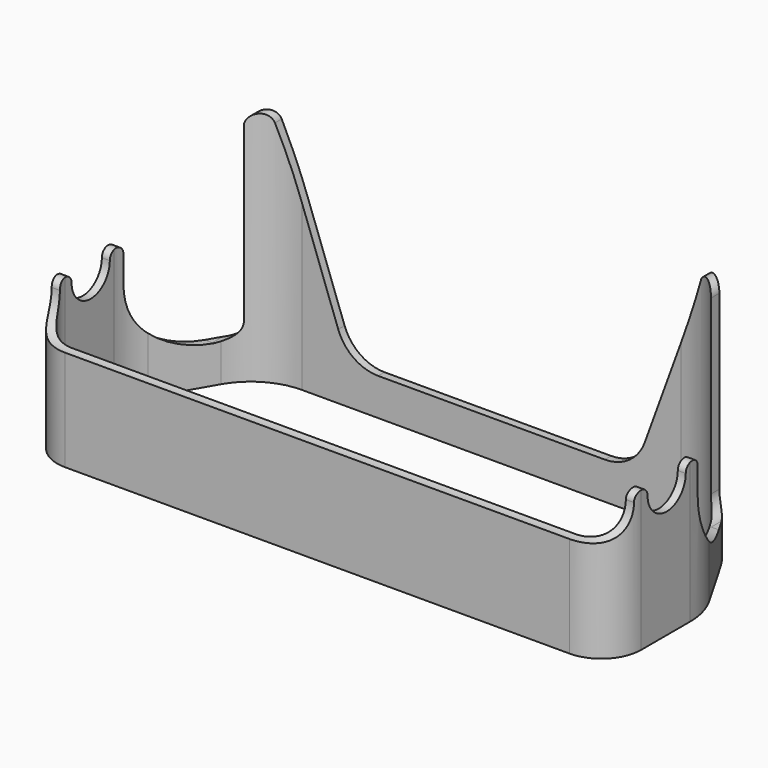
from build123d import *

# Parameters (mm, degrees)
PAD041_DEPTH         = 45
POCKET020_DEPTH      = 55.001
POCKET020_DEPTH_BACK = 55.001
POCKET021_DEPTH      = 8.501


with BuildPart() as part:
    # Sketch123 → Pad041 (new body)
    with BuildSketch(Plane.XY):
        with BuildLine():
            Line((-55, -17.5), (-55, -6))
            ThreePointArc((-53.191343, 0.75), (-54.539999, -2.505943), (-55, -6))
            Line((-53.191343, 0.75), (-47.41784, 10.75))
            ThreePointArc((-35.726497, 17.5), (-42.476497, 15.691343), (-47.41784, 10.75))
            Line((-35.726497, 17.5), (35.726497, 17.5))
            ThreePointArc((47.41784, 10.75), (42.476497, 15.691343), (35.726497, 17.5))
            Line((47.41784, 10.75), (53.191343, 0.75))
            ThreePointArc((55, -6), (54.539999, -2.505943), (53.191343, 0.75))
            Line((55, -6), (55, -17.5))
            ThreePointArc((47.5, -25), (52.803301, -22.803301), (55, -17.5))
            Line((47.5, -25), (-47.5, -25))
            ThreePointArc((-55, -17.5), (-52.803301, -22.803301), (-47.5, -25))
        make_face()
        with BuildLine():
            Line((53.5, -17.5), (53.5, -6))
            ThreePointArc((53.5, -6), (53.09111, -2.894171), (51.892305, 0))
            Line((51.892305, 0), (46.118802, 10))
            ThreePointArc((46.118802, 10), (41.726497, 14.392305), (35.726497, 16))
            Line((35.726497, 16), (-35.726497, 16))
            ThreePointArc((-35.726497, 16), (-41.726497, 14.392305), (-46.118802, 10))
            Line((-46.118802, 10), (-51.892305, 0))
            ThreePointArc((-51.892305, 0), (-53.09111, -2.894171), (-53.5, -6))
            Line((-53.5, -6), (-53.5, -17.5))
            ThreePointArc((-53.5, -17.5), (-51.742641, -21.742641), (-47.5, -23.5))
            Line((-47.5, -23.5), (47.5, -23.5))
            ThreePointArc((47.5, -23.5), (51.742641, -21.742641), (53.5, -17.5))
        make_face(mode=Mode.SUBTRACT)
    extrude(amount=PAD041_DEPTH)

    # Sketch124 → Pocket020 (cut, two sides)
    with BuildSketch(Plane.YZ) as pocket020_sk:
        with BuildLine():
            ThreePointArc((-16, 25), (-11.5, 20.5), (-7, 25))
            ThreePointArc((-4, 25), (-5.5, 26.5), (-7, 25))
            Line((-4, 25), (-4, 20))
            ThreePointArc((-4, 20), (-0.192388, 10.807612), (9, 7))
            Line((9, 50), (9, 7))
            Line((-26.5, 50), (9, 50))
            Line((-26.5, 20.5), (-26.5, 50))
            ThreePointArc((-26.5, 20.5), (-26.06066, 19.43934), (-25, 19))
            ThreePointArc((-25, 19), (-20.757359, 20.757359), (-19, 25))
            ThreePointArc((-16, 25), (-17.5, 26.5), (-19, 25))
        make_face()
    extrude(amount=-POCKET020_DEPTH, mode=Mode.SUBTRACT)
    extrude(pocket020_sk.sketch, amount=POCKET020_DEPTH_BACK, mode=Mode.SUBTRACT)

    # Sketch125 (on DatumPlane) → Pocket021 (cut, through all)
    with BuildSketch(Plane(origin=(0, 9, 7), x_dir=(1, 0, 0), z_dir=(0, -1, 0))):
        with BuildLine():
            ThreePointArc((44, 35.5), (42.347296, 37.469616), (40.120615, 36.18404))
            Line((40.120615, 36.18404), (28.866582, 5.263839))
            ThreePointArc((21.349041, 0), (25.937652, 1.446784), (28.866582, 5.263839))
            Line((-21.349041, 0), (21.349041, 0))
            ThreePointArc((-28.866582, 5.263839), (-25.937652, 1.446784), (-21.349041, 0))
            Line((-40.120615, 36.18404), (-28.866582, 5.263839))
            ThreePointArc((-40.120615, 36.18404), (-42.347296, 37.469616), (-44, 35.5))
            Line((-44, 35.5), (-44, 3))
            ThreePointArc((-47, 0), (-44.87868, 0.87868), (-44, 3))
            Line((-47, 0), (-65, 0))
            ThreePointArc((65, 0), (0, 65), (-65, 0))
            Line((47, 0), (65, 0))
            ThreePointArc((44, 3), (44.87868, 0.87868), (47, 0))
            Line((44, 35.5), (44, 3))
        make_face()
    extrude(amount=-POCKET021_DEPTH, mode=Mode.SUBTRACT)


with BuildPart() as part_1:
    # Body020 placement: moved
    add(part.part.moved(Location((0, 0, 13.3))))


solid = part_1.part
